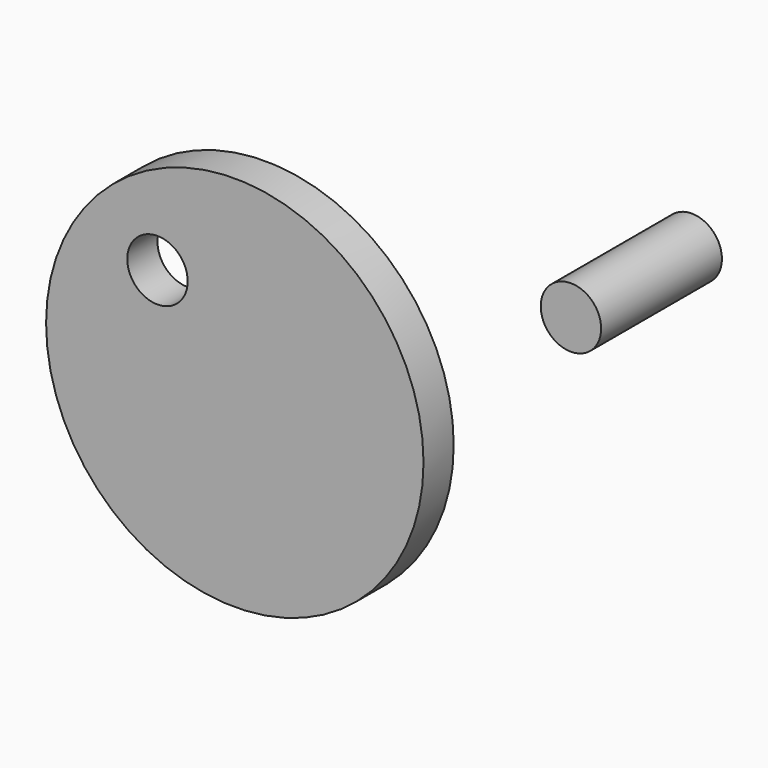
from build123d import *

# Parameters (mm, degrees)
F0_R     = 25
F0_R_2   = 4
F1_DEPTH = 5
F2_R     = 4
F3_DEPTH = 20


with BuildPart() as f1:
    # F0 (on Front) → F1 (new body)
    with BuildSketch(Plane.XZ):
        Circle(F0_R)
        with Locations((-10.244496, 10.956747)):
            Circle(F0_R_2, mode=Mode.SUBTRACT)
    extrude(amount=F1_DEPTH)


with BuildPart() as f3:
    # F2 (on Front) → F3 (new body)
    with BuildSketch(Plane.XZ):
        with Locations((56.528613, 33.255141)):
            Circle(F2_R)
    extrude(amount=F3_DEPTH)


solid = Compound([f1.part, f3.part])
